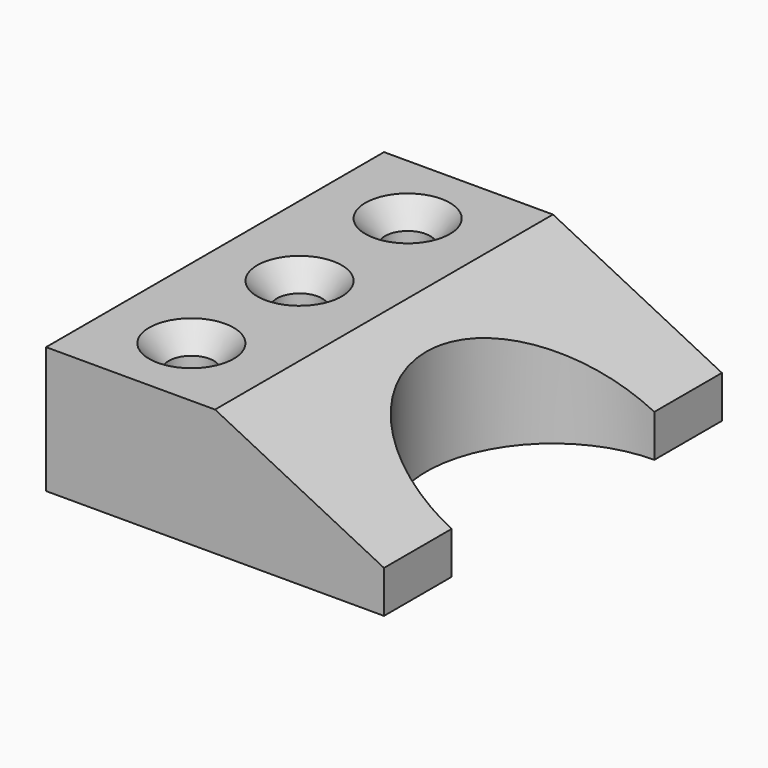
from build123d import *

# Parameters (mm, degrees)
F0_W           = 25.4
F0_H           = 63.5
F1_DEPTH       = 19.05
F1_FACE_W      = 63.5
F1_FACE_H      = 19.05
F3_W           = 63.5
F3_H           = 6.35
F5_D           = 38.1
F8_D           = 6.7564
F8_CSINK_D     = 12.7
F8_CSINK_ANGLE = 82


with BuildPart() as f1:
    # F0 (on Top) → F1 (new body)
    with BuildSketch(Plane.XY):
        with Locations((12.7, 31.75)):
            Rectangle(F0_W, F0_H)
    extrude(amount=F1_DEPTH)

    # F1_face (on face) → F4 section 0
    with BuildSketch(Plane(origin=(25.4, 31.75, 9.525), x_dir=(0, 1, 0), z_dir=(1, 0, 0))):
        Rectangle(F1_FACE_W, F1_FACE_H)
    # F3 (on offset) → F4 section 1
    with BuildSketch(Plane.YZ.offset(50.8)):
        with Locations((31.75, 3.175)):
            Rectangle(F3_W, F3_H)
    loft()

    # F5 (through all)
    with Locations(Plane(origin=(0, 0, 0), x_dir=(1, 0, 0), z_dir=(0, 0, -1))):
        with Locations((50.8, -31.75)):
            Hole(F5_D / 2)

    # F8 (through all)
    with Locations(Plane.XY.offset(19.05)):
        with Locations((12.7, 52.07), (12.7, 31.75), (12.7, 11.43)):
            CounterSinkHole(F8_D / 2, F8_CSINK_D / 2, counter_sink_angle=F8_CSINK_ANGLE)


solid = f1.part
